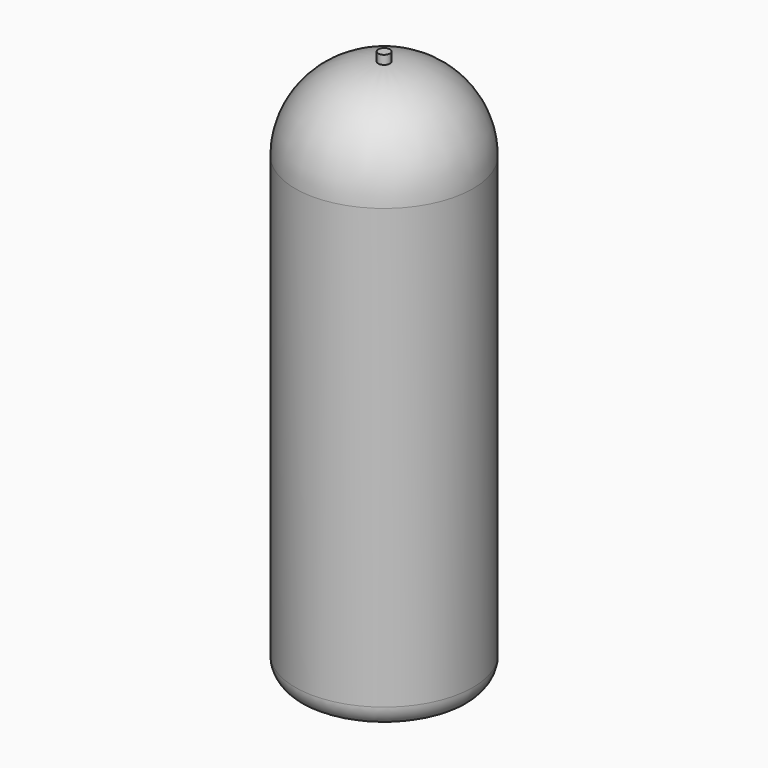
from build123d import *

# Parameters (mm, degrees)
F0_R     = 50.8
F1_DEPTH = 311.15
F2_R     = 47.5000066
F3_DEPTH = 5.08
F4_R     = 12.7
F5_DEPTH = 25.4
F6_R     = 5.08


with BuildPart() as f1:
    # F0 (on Top) → F1 (new body)
    with BuildSketch(Plane.XY):
        with Locations((-30.63319996, 40.1448793709)):
            Circle(F0_R)
    extrude(amount=F1_DEPTH)

    # F2
    f2_edges = [f1.edges().sort_by_distance(p)[0] for p in [
        (-81.4332, 40.144879, 311.15),
    ]]
    fillet(f2_edges, radius=F2_R)

    # F3 (add): a face of the model
    f3_faces = [f1.faces().sort_by_distance(p)[0] for p in [
        (-30.63319996, 40.1448793709, 311.15),
    ]]
    extrude(f3_faces, amount=F3_DEPTH)

    # F4
    f4_edges = [f1.edges().sort_by_distance(p)[0] for p in [
        (-81.4332, 40.144879, 0),
    ]]
    fillet(f4_edges, radius=F4_R)

    # F5 (cut): a face of the model
    f5_faces = [f1.faces().sort_by_distance(p)[0] for p in [
        (-30.63319996, 40.1448793709, 0),
    ]]
    extrude(f5_faces, amount=-F5_DEPTH, mode=Mode.SUBTRACT)

    # F6
    f6_edges = [f1.edges().sort_by_distance(p)[0] for p in [
        (-68.7332, 40.144879, 0),
    ]]
    fillet(f6_edges, radius=F6_R)


solid = f1.part
